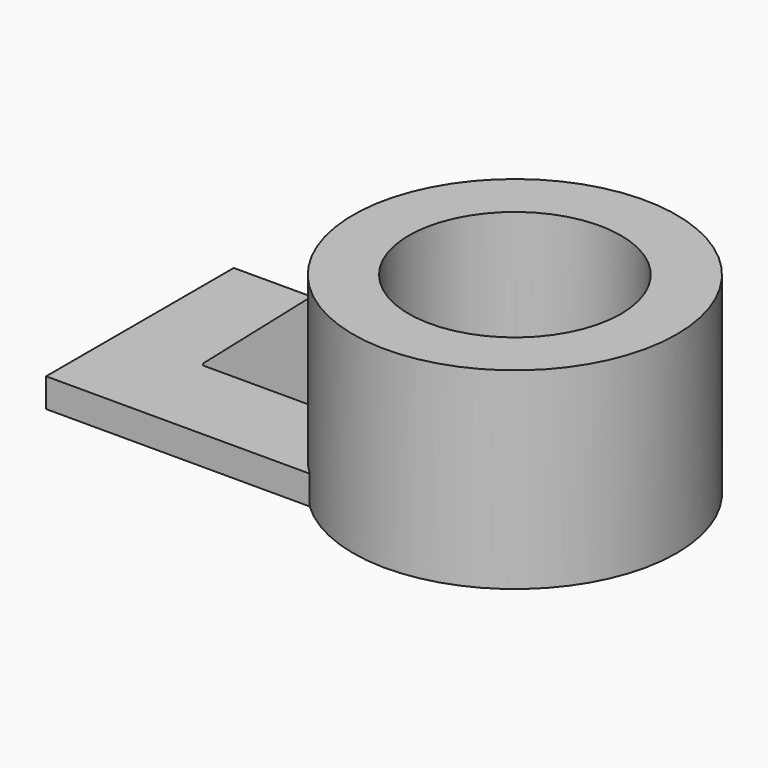
from build123d import *

# Parameters (mm, degrees)
F0_R          = 42.6730408219
F0_R_2        = 28.0004794719
F1_DEPTH      = 50.8
F2_W          = 70.7396827638
F2_H          = 61.8972182274
F3_DEPTH      = 7.62
F4_W          = 47.3499465734
F4_H          = 13.9767918736
F5_DEPTH      = 27.94
F7_DEPTH      = 25.4
F7_DEPTH_BACK = 25.4


with BuildPart() as f1:
    # F0 (on Top) → F1 (new body)
    with BuildSketch(Plane.XY):
        with Locations((42.7860990167, 0)):
            Circle(F0_R)
        with Locations((42.7860990167, 0)):
            Circle(F0_R_2, mode=Mode.SUBTRACT)
    extrude(amount=F1_DEPTH)

    # F2 (on Top) → F3 (join)
    with BuildSketch(Plane.XY):
        with Locations((-20.7568462938, 0)):
            Rectangle(F2_W, F2_H)
    extrude(amount=F3_DEPTH)

    # F4 (on face) → F5 (join)
    with BuildSketch(Plane.XY.offset(7.62)):
        with Locations((-10.2029433474, 0)):
            Rectangle(F4_W, F4_H)
    extrude(amount=F5_DEPTH)

    # F6 (on Front) → F7 (cut, two sides)
    with BuildSketch(Plane.XZ) as f7_sk:
        Polygon((-34.1631546617, 37.5091433525), (-34.1631546617, 7.8441174701), (0, 37.5091433525), align=None)
    extrude(amount=-F7_DEPTH, mode=Mode.SUBTRACT)
    extrude(f7_sk.sketch, amount=F7_DEPTH_BACK, mode=Mode.SUBTRACT)


solid = f1.part
